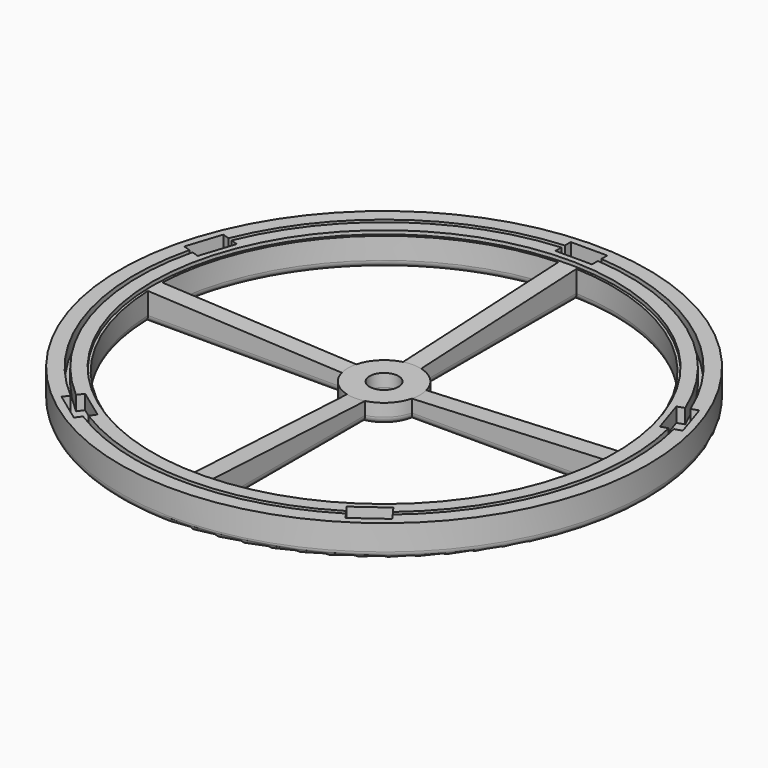
from build123d import *

# Parameters (mm, degrees)
F1_FACE1_R   = 80.9498
F1_FACE1_R_2 = 5.08
F3_DEPTH     = 25.4
F4_W         = 12.827
F4_H         = 6.731
F5_DEPTH     = 5.08
F10_R        = 2.54


with BuildPart() as f1:
    # F0 (on Front) → F1 (revolve)
    with BuildSketch(Plane.XZ):
        Polygon((80.9498, 0), (5.08, 0), (5.08, -10.16), (92.6526099873, -10.16), (92.6526099873, 1.27), (87.5726099873, 1.27), (87.5726099873, -3.81), (86.0298, -3.81), (86.0298, 1.27), (80.9498, 1.27), align=None)
    revolve(axis=Axis((0, 0, -1.5273375125), (0, 0, -1)))

    # F2 (on face) + F1_face1 (on face) → F3 (cut)
    with BuildSketch(Plane(origin=(0, 0, -10.16), x_dir=(1, 0, 0), z_dir=(0, 0, -1))):
        with BuildLine():
            Line((-3.175, 12.2967221242), (-3.175, 80.3791177001))
            ThreePointArc((-3.175, 80.3791177001), (-56.8809422709, 56.8809422709), (-80.3791177001, 3.175))
            Line((-80.3791177001, 3.175), (-12.2967221242, 3.175))
            ThreePointArc((-12.2967221242, 3.175), (-8.9802561211, 8.9802561211), (-3.175, 12.2967221242))
        make_face()
        with BuildLine():
            Line((-12.2967221242, -3.175), (-80.3791177001, -3.175))
            ThreePointArc((-80.3791177001, -3.175), (-56.8809422709, -56.8809422709), (-3.175, -80.3791177001))
            Line((-3.175, -80.3791177001), (-3.175, -12.2967221242))
            ThreePointArc((-3.175, -12.2967221242), (-8.9802561211, -8.9802561211), (-12.2967221242, -3.175))
        make_face()
        with BuildLine():
            Line((12.2967221242, 3.175), (80.3791177001, 3.175))
            ThreePointArc((80.3791177001, 3.175), (56.8809422709, 56.8809422709), (3.175, 80.3791177001))
            Line((3.175, 80.3791177001), (3.175, 12.2967221242))
            ThreePointArc((3.175, 12.2967221242), (8.9802561211, 8.9802561211), (12.2967221242, 3.175))
        make_face()
        with BuildLine():
            Line((3.175, -12.2967221242), (3.175, -80.3791177001))
            ThreePointArc((3.175, -80.3791177001), (56.8809422709, -56.8809422709), (80.3791177001, -3.175))
            Line((80.3791177001, -3.175), (12.2967221242, -3.175))
            ThreePointArc((12.2967221242, -3.175), (8.9802561211, -8.9802561211), (3.175, -12.2967221242))
        make_face()
    with BuildSketch(Plane.XY):
        Circle(F1_FACE1_R)
        Circle(F1_FACE1_R_2, mode=Mode.SUBTRACT)
    extrude(amount=-F3_DEPTH, dir=(0, 0, -1), mode=Mode.SUBTRACT)

    # F4 (on face) → F5 (cut)
    with BuildSketch(Plane.XY.offset(1.27)):
        with Locations((0, 86.5632)):
            Rectangle(F4_W, F4_H)
        Polygon((-83.5453956435, 33.8890975493), (-87.5091566304, 21.6898956148), (-81.1075952192, 19.6099022256), (-77.1438342323, 31.8091041602), align=None)
        Polygon((-58.0473941113, -68.9840858665), (-47.6701331244, -76.5236072976), (-43.7137505912, -71.0781139085), (-54.0910115781, -63.5385924773), align=None)
        Polygon((47.6701331244, -76.5236072976), (58.0473941113, -68.9840858665), (54.0910115781, -63.5385924773), (43.7137505912, -71.0781139085), align=None)
        Polygon((87.5091566304, 21.6898956148), (83.5453956435, 33.8890975493), (77.1438342323, 31.8091041602), (81.1075952192, 19.6099022256), align=None)
    extrude(amount=-F5_DEPTH, mode=Mode.SUBTRACT)


with BuildPart() as f6_1:
    # F6: copy of F1
    add(f1.part)


with BuildPart() as f1_1:
    add(f1.part)

    # F8 (on Front) → F9 (revolve, cut)
    with BuildSketch(Plane.XZ):
        Polygon((-81.28, 0), (-12.7, -3.175), (-3.4997510334, -3.175), (-4.5655716038, 5.7565840118), (-81.28, 5.608932225), align=None)
    revolve(axis=Axis((0, 0, -8.0116291065), (0, 0, -1)), mode=Mode.SUBTRACT)

    # F10
    f10_edges = [f1_1.edges().sort_by_distance(p)[0] for p in [
        (-92.65261, 0, -10.16),
        (3.175, 46.33792, -10.16),
        (8.980256, 8.980256, -10.16),
        (46.33792, 3.175, -10.16),
        (56.880942, 56.880942, -10.16),
        (-5.08, 0, -10.16),
        (-46.33792, 3.175, -10.16),
        (-8.980256, 8.980256, -10.16),
        (-3.175, 46.33792, -10.16),
        (-56.880942, 56.880942, -10.16),
        (46.33792, -3.175, -10.16),
        (8.980256, -8.980256, -10.16),
        (3.175, -46.33792, -10.16),
        (56.880942, -56.880942, -10.16),
        (-56.880942, -56.880942, -10.16),
        (-3.175, -46.33792, -10.16),
        (-8.980256, -8.980256, -10.16),
        (-46.33792, -3.175, -10.16),
    ]]
    fillet(f10_edges, radius=F10_R)


solid = f1_1.part
